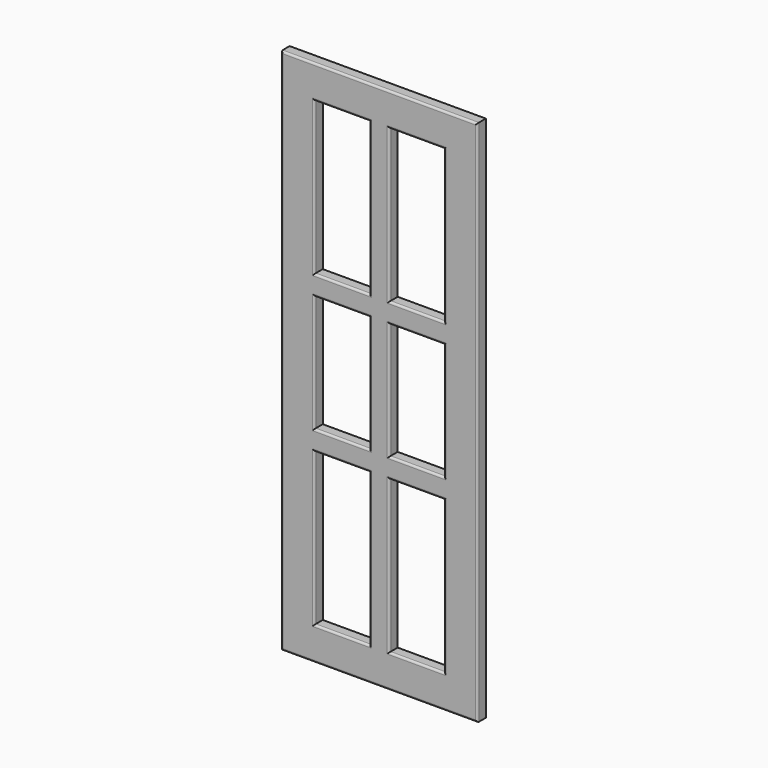
from build123d import *

# Parameters (mm, degrees)
F0_W      = 28.8499742746
F0_H      = 37.8827601671
F1_DEPTH  = 16
F2_DEPTH  = 296
F3_DEPTH  = 996
F4_W      = 199.8313069344
F4_H      = 801.1276721954
F5_DEPTH  = 5
F6_DEPTH  = 39.21
F7_DEPTH  = 2.24
F8_DEPTH  = 55.66
F9_DEPTH  = 1.59
F10_W     = 54.77245152
F10_H     = 895.9976721954
F11_DEPTH = 5
F12_DEPTH = 5.86
F13_DEPTH = 18.91
F14_W     = 83.0026693535
F14_H     = 34.9487662315
F14_H_2   = 55.274695158
F15_W     = 82.9961860609
F15_H     = 44.8832511902
F15_H_2   = 52.5203943253
F16_DEPTH = 5
F17_DEPTH = 300
F18_DEPTH = 300
F19_DEPTH = 324.79
F20_DEPTH = 324.79
F21_DEPTH = 250
F22_DEPTH = 250
F23_DEPTH = 100
F24_DEPTH = 100
F25_DEPTH = 50
F26_DEPTH = 50
F27_DEPTH = 134.02
F28_DEPTH = 100
F29_DEPTH = 100
F30_DEPTH = 100
F31_DEPTH = 50
F32_DEPTH = 54.95
F33_DEPTH = 50
F34_DEPTH = 109.29
F35_DEPTH = 14.88
F36_DEPTH = 230.15
F37_DEPTH = 230.15
F38_DEPTH = 22.52
F39_DEPTH = 77.2
F40_DEPTH = 77.2
F41_DEPTH = 11
F42_DEPTH = 200
F43_DEPTH = 200
F44_DEPTH = 200
F45_DEPTH = 70
F46_DEPTH = 70
F47_DEPTH = 70
F48_DEPTH = 70
F49_R     = 3


with BuildPart() as f1:
    # F0 (on Front) → F1 (new body)
    with BuildSketch(Plane.XZ):
        with Locations((14.4249871373, 18.9413800836)):
            Rectangle(F0_W, F0_H)
    extrude(amount=F1_DEPTH)

    # F2 (add): a face of the model
    f2_faces = [f1.faces().sort_by_distance(p)[0] for p in [
        (0, -8, 18.9413800836),
    ]]
    extrude(f2_faces, amount=-F2_DEPTH)

    # F3 (add): a face of the model
    f3_faces = [f1.faces().sort_by_distance(p)[0] for p in [
        (148, -8, 0),
    ]]
    extrude(f3_faces, amount=-F3_DEPTH)

    # F4 (on face) → F5 (cut)
    with BuildSketch(Plane.XZ.offset(16)):
        with Locations((148.3252942562, 506.2239170074)):
            Rectangle(F4_W, F4_H)
    extrude(amount=-F5_DEPTH, mode=Mode.SUBTRACT)

    # F6 (cut): a face of the model
    f6_faces = [f1.faces().sort_by_distance(p)[0] for p in [
        (148.3252942562, -13.5, 906.7877531052),
    ]]
    extrude(f6_faces, amount=-F6_DEPTH, mode=Mode.SUBTRACT)

    # F7 (add): a face of the model
    f7_faces = [f1.faces().sort_by_distance(p)[0] for p in [
        (248.2409477234, -13.5, 525.8289170074),
    ]]
    extrude(f7_faces, amount=F7_DEPTH)

    # F8 (cut): a face of the model
    f8_faces = [f1.faces().sort_by_distance(p)[0] for p in [
        (147.2052942562, -13.5, 105.6600809097),
    ]]
    extrude(f8_faces, amount=-F8_DEPTH, mode=Mode.SUBTRACT)

    # F9 (add): a face of the model
    f9_faces = [f1.faces().sort_by_distance(p)[0] for p in [
        (48.409640789, -13.5, 497.9989170074),
    ]]
    extrude(f9_faces, amount=F9_DEPTH)

    # F10 (on face) → F11 (join)
    with BuildSketch(Plane.XZ.offset(11)):
        with Locations((154.5285359025, 497.9989170074)):
            Rectangle(F10_W, F10_H)
    extrude(amount=F11_DEPTH)

    # F12 (cut): a face of the model
    f12_faces = [f1.faces().sort_by_distance(p)[0] for p in [
        (127.1423101425, -13.5, 497.9989170074),
    ]]
    extrude(f12_faces, amount=-F12_DEPTH, mode=Mode.SUBTRACT)

    # F13 (cut): a face of the model
    f13_faces = [f1.faces().sort_by_distance(p)[0] for p in [
        (181.9147616625, -13.5, 497.9989170074),
    ]]
    extrude(f13_faces, amount=-F13_DEPTH, mode=Mode.SUBTRACT)

    # F14 (on face) + F15 (on face) → F16 (join)
    with BuildSketch(Plane.XZ.offset(11)):
        with Locations((91.5009754658, 853.3093035221)):
            Rectangle(F14_W, F14_H)
        with Locations((91.5009754658, 511.6568356752)):
            Rectangle(F14_W, F14_H_2)
    with BuildSketch(Plane.XZ.offset(11)):
        with Locations((204.5028546929, 853.7013530731)):
            Rectangle(F15_W, F15_H)
        with Locations((204.5028546929, 576.5425562859)):
            Rectangle(F15_W, F15_H_2)
    extrude(amount=F16_DEPTH)

    # F17 (add): faces of the model
    f17_faces = [f1.faces().sort_by_distance(p)[0] for p in [
        (204.5028546929, -13.5, 550.2823591232),
        (91.5009754658, -13.5, 484.0194880962),
    ]]
    extrude(f17_faces, amount=F17_DEPTH)

    # F18 (cut): faces of the model
    f18_faces = [f1.faces().sort_by_distance(p)[0] for p in [
        (91.5009754658, -13.5, 539.2941832542),
        (204.5028546929, -13.5, 602.8027534485),
    ]]
    extrude(f18_faces, amount=-F18_DEPTH, mode=Mode.SUBTRACT)

    # F19 (add): a face of the model
    f19_faces = [f1.faces().sort_by_distance(p)[0] for p in [
        (91.5009754658, -13.5, 835.8349204063),
    ]]
    extrude(f19_faces, amount=F19_DEPTH)

    # F20 (cut): a face of the model
    f20_faces = [f1.faces().sort_by_distance(p)[0] for p in [
        (91.5009754658, -13.5, 870.7836866379),
    ]]
    extrude(f20_faces, amount=-F20_DEPTH, mode=Mode.SUBTRACT)

    # F21 (add): a face of the model
    f21_faces = [f1.faces().sort_by_distance(p)[0] for p in [
        (91.5009754658, -13.5, 239.2941832542),
    ]]
    extrude(f21_faces, amount=F21_DEPTH)

    # F22 (cut): a face of the model
    f22_faces = [f1.faces().sort_by_distance(p)[0] for p in [
        (91.5009754658, -13.5, 184.0194880962),
    ]]
    extrude(f22_faces, amount=-F22_DEPTH, mode=Mode.SUBTRACT)

    # F23 (add): a face of the model
    f23_faces = [f1.faces().sort_by_distance(p)[0] for p in [
        (91.5009754658, -13.5, 545.9936866379),
    ]]
    extrude(f23_faces, amount=F23_DEPTH)

    # F24 (cut): a face of the model
    f24_faces = [f1.faces().sort_by_distance(p)[0] for p in [
        (91.5009754658, -13.5, 511.0449204063),
    ]]
    extrude(f24_faces, amount=-F24_DEPTH, mode=Mode.SUBTRACT)

    # F25 (add): a face of the model
    f25_faces = [f1.faces().sort_by_distance(p)[0] for p in [
        (91.5009754658, -13.5, 645.9936866379),
    ]]
    extrude(f25_faces, amount=F25_DEPTH)

    # F26 (cut): a face of the model
    f26_faces = [f1.faces().sort_by_distance(p)[0] for p in [
        (91.5009754658, -13.5, 611.0449204063),
    ]]
    extrude(f26_faces, amount=-F26_DEPTH, mode=Mode.SUBTRACT)

    # F27 (add): a face of the model
    f27_faces = [f1.faces().sort_by_distance(p)[0] for p in [
        (91.5009754658, -13.5, 434.0194880962),
    ]]
    extrude(f27_faces, amount=F27_DEPTH)

    # F28 (cut): a face of the model
    f28_faces = [f1.faces().sort_by_distance(p)[0] for p in [
        (91.5009754658, -13.5, 299.9994880962),
    ]]
    extrude(f28_faces, amount=-F28_DEPTH, mode=Mode.SUBTRACT)

    # F29 (add): a face of the model
    f29_faces = [f1.faces().sort_by_distance(p)[0] for p in [
        (91.5009754658, -13.5, 661.0449204063),
    ]]
    extrude(f29_faces, amount=F29_DEPTH)

    # F30 (cut): a face of the model
    f30_faces = [f1.faces().sort_by_distance(p)[0] for p in [
        (91.5009754658, -13.5, 695.9936866379),
    ]]
    extrude(f30_faces, amount=-F30_DEPTH, mode=Mode.SUBTRACT)

    # F31 (add): a face of the model
    f31_faces = [f1.faces().sort_by_distance(p)[0] for p in [
        (91.5009754658, -13.5, 595.9936866379),
    ]]
    extrude(f31_faces, amount=F31_DEPTH)

    # F32 (cut): a face of the model
    f32_faces = [f1.faces().sort_by_distance(p)[0] for p in [
        (91.5009754658, -13.5, 561.0449204063),
    ]]
    extrude(f32_faces, amount=-F32_DEPTH, mode=Mode.SUBTRACT)

    # F33 (add): a face of the model
    f33_faces = [f1.faces().sort_by_distance(p)[0] for p in [
        (91.5009754658, -13.5, 399.9994880962),
    ]]
    extrude(f33_faces, amount=F33_DEPTH)

    # F34 (cut): a face of the model
    f34_faces = [f1.faces().sort_by_distance(p)[0] for p in [
        (91.5009754658, -13.5, 489.2941832542),
    ]]
    extrude(f34_faces, amount=-F34_DEPTH, mode=Mode.SUBTRACT)

    # F35 (cut): a face of the model
    f35_faces = [f1.faces().sort_by_distance(p)[0] for p in [
        (204.5028546929, -13.5, 831.259727478),
    ]]
    extrude(f35_faces, amount=-F35_DEPTH, mode=Mode.SUBTRACT)

    # F36 (add): a face of the model
    f36_faces = [f1.faces().sort_by_distance(p)[0] for p in [
        (204.5028546929, -13.5, 846.139727478),
    ]]
    extrude(f36_faces, amount=F36_DEPTH)

    # F37 (cut): a face of the model
    f37_faces = [f1.faces().sort_by_distance(p)[0] for p in [
        (204.5028546929, -13.5, 876.1429786682),
    ]]
    extrude(f37_faces, amount=-F37_DEPTH, mode=Mode.SUBTRACT)

    # F38 (cut): a face of the model
    f38_faces = [f1.faces().sort_by_distance(p)[0] for p in [
        (204.5028546929, -13.5, 250.2823591232),
    ]]
    extrude(f38_faces, amount=-F38_DEPTH, mode=Mode.SUBTRACT)

    # F39 (add): a face of the model
    f39_faces = [f1.faces().sort_by_distance(p)[0] for p in [
        (204.5028546929, -13.5, 302.8027534485),
    ]]
    extrude(f39_faces, amount=F39_DEPTH)

    # F40 (cut): a face of the model
    f40_faces = [f1.faces().sort_by_distance(p)[0] for p in [
        (204.5028546929, -13.5, 272.8023591232),
    ]]
    extrude(f40_faces, amount=-F40_DEPTH, mode=Mode.SUBTRACT)

    # F41 (cut): faces of the model
    f41_faces = [f1.faces().sort_by_distance(p)[0] for p in [
        (91.5009754658, -11, 795.9957198715),
        (204.5028546929, -11, 795.9953658867),
        (204.5028546929, -11, 497.9962404633),
        (91.5009754658, -11, 497.9995518303),
        (91.5009754658, -11, 199.999784503),
        (204.5028546929, -11, 200.0012200165),
    ]]
    extrude(f41_faces, amount=-F41_DEPTH, mode=Mode.SUBTRACT)

    # F42 (add): faces of the model
    f42_faces = [f1.faces().sort_by_distance(p)[0] for p in [
        (204.5028546929, -8, 615.989727478),
        (91.5009754658, -8, 615.9949204063),
    ]]
    extrude(f42_faces, amount=F42_DEPTH)

    # F43 (add): faces of the model
    f43_faces = [f1.faces().sort_by_distance(p)[0] for p in [
        (91.5009754658, -8, 945.9977531052),
        (204.5028546929, -8, 945.9977531052),
    ]]
    extrude(f43_faces, amount=F43_DEPTH)

    # F44 (cut): faces of the model
    f44_faces = [f1.faces().sort_by_distance(p)[0] for p in [
        (148, -8, 996),
        (91.5009754658, -8, 645.9936866379),
        (204.5028546929, -8, 645.9929786682),
    ]]
    extrude(f44_faces, amount=-F44_DEPTH, mode=Mode.SUBTRACT)

    # F45 (add): faces of the model
    f45_faces = [f1.faces().sort_by_distance(p)[0] for p in [
        (204.5028546929, -8, 350.0023591232),
        (91.5009754658, -8, 349.9994880962),
    ]]
    extrude(f45_faces, amount=F45_DEPTH)

    # F46 (cut): faces of the model
    f46_faces = [f1.faces().sort_by_distance(p)[0] for p in [
        (204.5028546929, -8, 380.0027534485),
        (91.5009754658, -8, 380.0041832542),
    ]]
    extrude(f46_faces, amount=-F46_DEPTH, mode=Mode.SUBTRACT)

    # F47 (add): faces of the model
    f47_faces = [f1.faces().sort_by_distance(p)[0] for p in [
        (204.5028546929, -8, 445.9929786682),
        (91.5009754658, -8, 445.9936866379),
    ]]
    extrude(f47_faces, amount=F47_DEPTH)

    # F48 (cut): faces of the model
    f48_faces = [f1.faces().sort_by_distance(p)[0] for p in [
        (204.5028546929, -8, 415.989727478),
        (91.5009754658, -8, 415.9949204063),
    ]]
    extrude(f48_faces, amount=-F48_DEPTH, mode=Mode.SUBTRACT)

    # F49
    f49_edges = [f1.edges().sort_by_distance(p)[0] for p in [
        (0, -16, 398),
        (148, -16, 0),
        (296, -16, 398),
        (148, -16, 796),
        (133.00231, -16, 164.999785),
        (91.500975, -16, 50.000081),
        (49.999641, -16, 164.999785),
        (91.500975, -16, 279.999488),
        (246.000948, -16, 165.00122),
        (204.502855, -16, 50.000081),
        (163.004762, -16, 165.00122),
        (204.502855, -16, 280.002359),
        (204.502855, -16, 310.002753),
        (163.004762, -16, 397.99624),
        (204.502855, -16, 485.989727),
        (246.000948, -16, 397.99624),
        (49.999641, -16, 397.999552),
        (91.500975, -16, 485.99492),
        (133.00231, -16, 397.999552),
        (91.500975, -16, 310.004183),
        (49.999641, -16, 630.99572),
        (91.500975, -16, 745.997753),
        (133.00231, -16, 630.99572),
        (91.500975, -16, 515.993687),
        (163.004762, -16, 630.995366),
        (204.502855, -16, 745.997753),
        (246.000948, -16, 630.995366),
        (204.502855, -16, 515.992979),
    ]]
    fillet(f49_edges, radius=F49_R)


solid = f1.part
